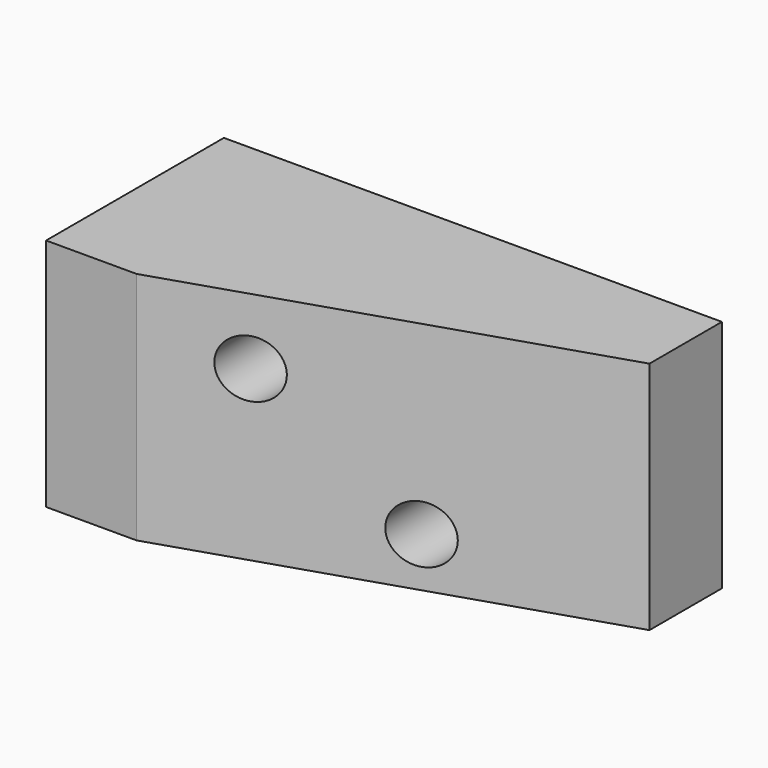
from build123d import *

# Parameters (mm, degrees)
F0_R     = 7
F1_DEPTH = 54
F3_DEPTH = 57.001


with BuildPart() as f1:
    # F0 (on Front) → F1 (new body)
    with BuildSketch(Plane.XZ):
        Polygon((62, 57), (0, 57), (0, 46), (22, 29.677419), (62, 0), (121, 0), (121, 11), align=None)
        with Locations((77, 12)):
            Circle(F0_R, mode=Mode.SUBTRACT)
        with Locations((44, 41)):
            Circle(F0_R, mode=Mode.SUBTRACT)
        Polygon((22, 29.677419), (0, 46), (0, 0), (22, 0), align=None)
        Polygon((121, 57), (62, 57), (121, 11), align=None)
        Polygon((62, 0), (22, 29.677419), (22, 0), align=None)
    extrude(amount=F1_DEPTH)

    # F2 (on face) → F3 (cut, through all)
    with BuildSketch(Plane.XY.offset(57)):
        Polygon((121, -22), (22, -54), (121, -54), align=None)
    extrude(amount=-F3_DEPTH, mode=Mode.SUBTRACT)


solid = f1.part
